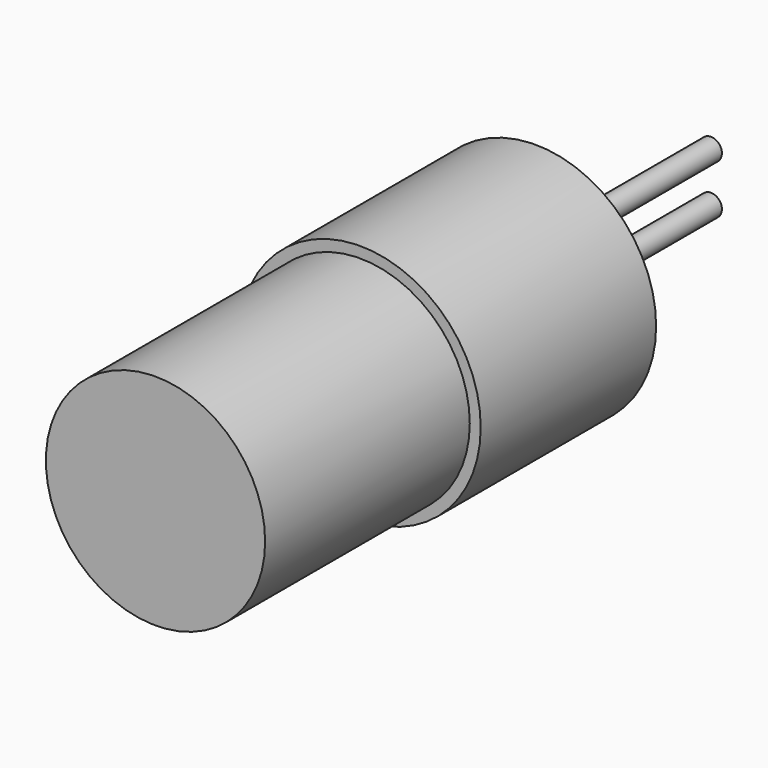
from build123d import *

# Parameters (mm, degrees)
F0_R     = 3
F0_R_2   = 0.3
F1_DEPTH = 13
F0_R_3   = 3.3
F2_DEPTH = 6
F3_DEPTH = 6


with BuildPart() as f1:
    # F0 (on Front) → F1 (new body)
    with BuildSketch(Plane.XZ):
        Circle(F0_R)
        with Locations((0, -0.5961988354)):
            Circle(F0_R_2, mode=Mode.SUBTRACT)
        with Locations((0, 0.7511804579)):
            Circle(F0_R_2, mode=Mode.SUBTRACT)
        with Locations((0, 0.7511804579)):
            Circle(F0_R_2)
        with Locations((0, -0.5961988354)):
            Circle(F0_R_2)
    extrude(amount=F1_DEPTH)

    # F0 (on Front) → F2 (join)
    with BuildSketch(Plane.XZ):
        Circle(F0_R_3)
        Circle(F0_R, mode=Mode.SUBTRACT)
    extrude(amount=F2_DEPTH)

    # F0 (on Front) → F3 (join)
    with BuildSketch(Plane.XZ):
        with Locations((0, 0.7511804579)):
            Circle(F0_R_2)
        with Locations((0, -0.5961988354)):
            Circle(F0_R_2)
    extrude(amount=-F3_DEPTH)


solid = f1.part
